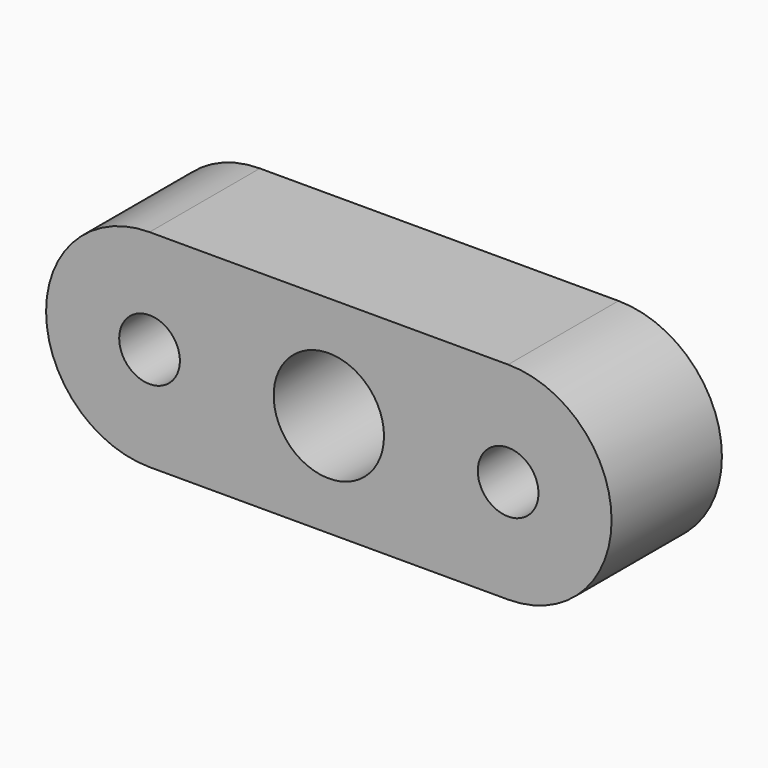
from build123d import *

# Parameters (mm, degrees)
F0_R     = 4
F1_DEPTH = 10
F2_D     = 4.4
F2_DEPTH = 10
F2_TIP   = 1.3218933619


with BuildPart() as f1:
    # F0 (on Front) → F1 (new body)
    with BuildSketch(Plane.XZ):
        with BuildLine():
            Line((-13, -7.5), (13, -7.5))
            ThreePointArc((13, -7.5), (20.5, 0), (13, 7.5))
            Line((13, 7.5), (-13, 7.5))
            ThreePointArc((-13, 7.5), (-20.5, 0), (-13, -7.5))
        make_face()
        Circle(F0_R, mode=Mode.SUBTRACT)
    extrude(amount=-F1_DEPTH)

    # F2
    with Locations(Plane.XZ):
        with Locations((-13, 0), (13, 0)):
            Hole(F2_D / 2, depth=F2_DEPTH)
            with Locations((0, 0, -(F2_DEPTH + F2_TIP / 2))):  # 118° drill point
                Cone(0, F2_D / 2, F2_TIP, mode=Mode.SUBTRACT)


solid = f1.part
